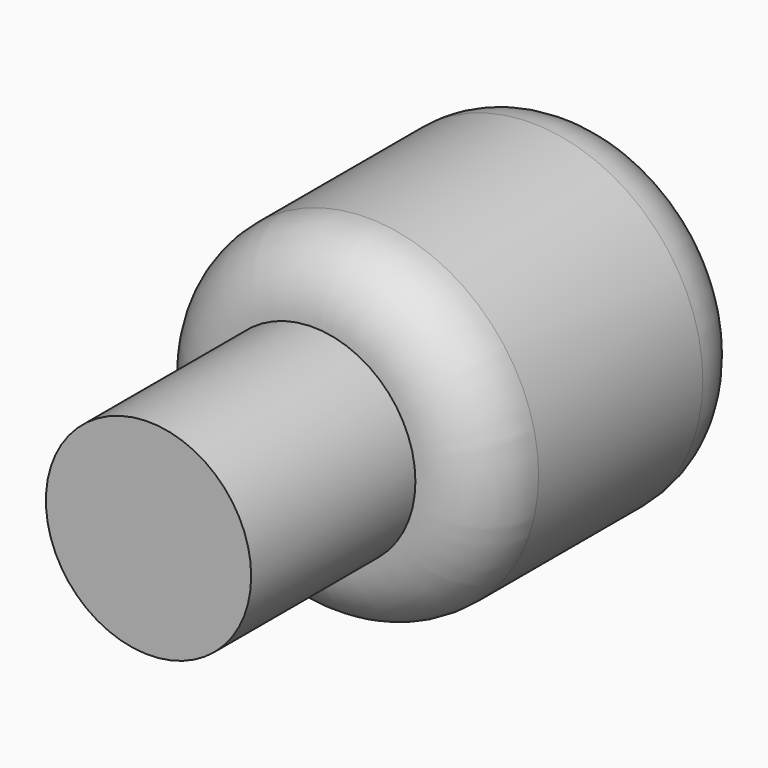
from build123d import *

# Parameters (mm, degrees)
F0_R      = 12.7
F1_DEPTH  = 25.4
F2_R      = 5.08
F3_R      = 6.35
F1_FACE_R = 7.62
F4_DEPTH  = 15.24


with BuildPart() as f1:
    # F0 (on Front) → F1 (new body)
    with BuildSketch(Plane.XZ):
        Circle(F0_R)
    extrude(amount=F1_DEPTH)

    # F2
    f2_edges = [f1.edges().sort_by_distance(p)[0] for p in [
        (-12.7, -25.4, 0),
        (-12.7, 0, 0),
    ]]
    fillet(f2_edges, radius=F2_R)

    # F3 (on Front) + F1_face (on face) → F4 (join)
    with BuildSketch(Plane.XZ):
        Circle(F3_R)
    with BuildSketch(Plane.XZ.offset(25.4)):
        Circle(F1_FACE_R)
    extrude(amount=F4_DEPTH)


solid = f1.part
